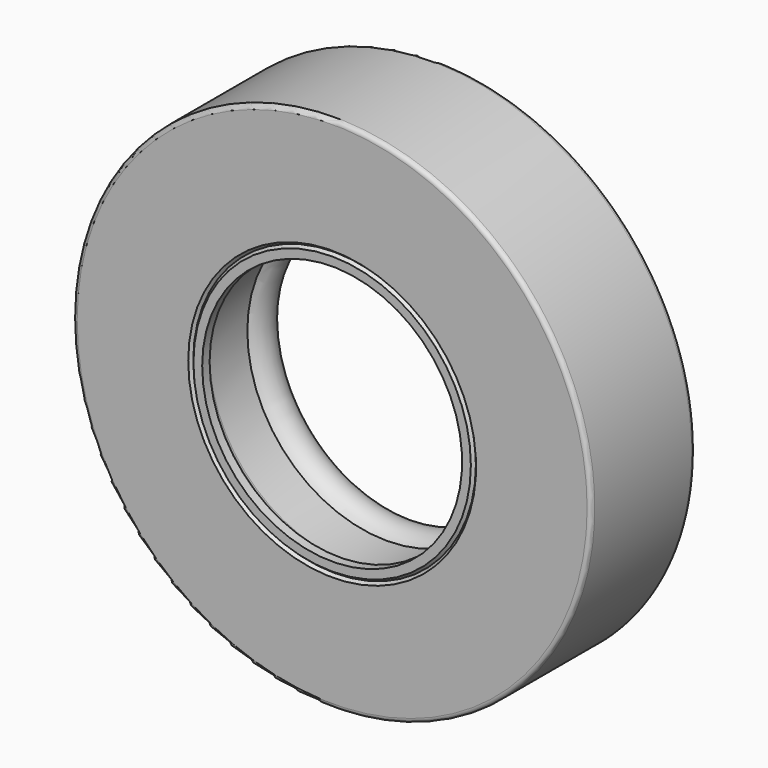
from build123d import *


with BuildPart() as f1:
    # F0 (on Top) → F1 (revolve)
    with BuildSketch(Plane.XY):
        with BuildLine():
            Line((-11.519215, 6.003767), (-11.519215, 6.140151))
            ThreePointArc((-11.519215, 6.140151), (-11.580678, 6.288537), (-11.729064, 6.35))
            Line((-11.729064, 6.35), (-12.490151, 6.35))
            ThreePointArc((-12.490151, 6.35), (-12.638537, 6.288537), (-12.7, 6.140151))
            Line((-12.7, 6.140151), (-12.7, 0.209849))
            ThreePointArc((-12.7, 0.209849), (-12.638537, 0.061463), (-12.490151, 0))
            Line((-12.490151, 0), (-7.049595, 0))
            Line((-7.049595, 0), (-6.922595, 0.148146))
            Line((-6.922595, 0.148146), (-6.795595, 0))
            Line((-6.795595, 0), (-6.36647, 0))
            Line((-6.36647, 0), (-6.36647, 0.453662))
            Line((-6.36647, 0.453662), (-6.776002, 0.877761))
            ThreePointArc((-6.776002, 0.877761), (-6.819616, 0.944923), (-6.834895, 1.023532))
            Line((-6.834895, 1.023532), (-6.834895, 3.35024))
            ThreePointArc((-6.834895, 3.35024), (-6.554975, 4.822258), (-8.047888, 4.950328))
            ThreePointArc((-8.047888, 4.950328), (-8.064898, 4.456137), (-7.570706, 4.439127))
            ThreePointArc((-7.570706, 4.439127), (-7.088281, 4.363034), (-7.2787, 3.913296))
            ThreePointArc((-7.2787, 3.913296), (-7.625436, 3.68122), (-7.759448, 3.286093))
            Line((-7.759448, 3.286093), (-7.759448, 1.545043))
            ThreePointArc((-7.759448, 1.545043), (-7.782793, 1.44885), (-7.847636, 1.37406))
            Line((-7.847636, 1.37406), (-9.035964, 0.528518))
            Line((-9.035964, 0.528518), (-11.890998, 0.528518))
            ThreePointArc((-11.890998, 0.528518), (-12.039383, 0.589982), (-12.100846, 0.738367))
            Line((-12.100846, 0.738367), (-12.100846, 5.58407))
            ThreePointArc((-12.100846, 5.58407), (-12.039383, 5.732455), (-11.890998, 5.793919))
            Line((-11.890998, 5.793919), (-11.729064, 5.793919))
            ThreePointArc((-11.729064, 5.793919), (-11.580678, 5.855382), (-11.519215, 6.003767))
        make_face()
    revolve(axis=Axis((0, 4.222262, 0), (0, 1, 0)))


solid = f1.part
